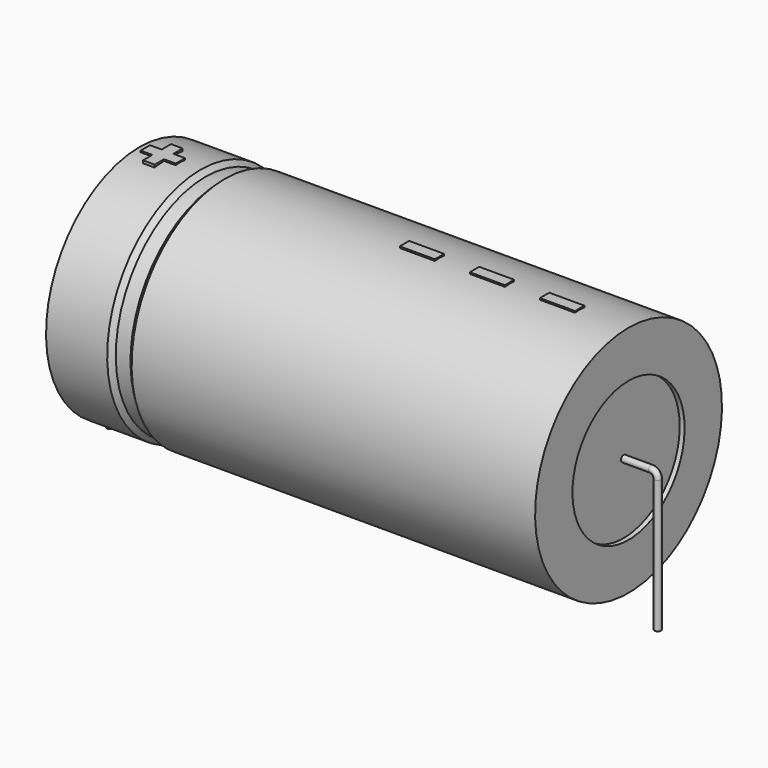
from build123d import *

# Parameters (mm, degrees)
SKETCH_R    = 0.45
SKETCH004_W = 4.8
SKETCH004_H = 1.6
PAD_DEPTH   = 16.16


with BuildPart() as sweep_body:
    # Sweep: sweep along a path in Sketch001
    with BuildLine(Plane.XZ) as sweep_path:
        Line((0, -3), (0, 15.2))
        ThreePointArc((0, 15.2), (0.263601, 15.836393), (0.899993, 16.1))
        Line((0.899993, 16.1), (74.1, 16.1))
        ThreePointArc((74.1, 16.1), (74.736396, 15.836396), (75, 15.2))
        Line((75, 15.2), (75, -3))
    # Sketch → Sweep (sweep)
    with BuildSketch(Plane.XY.offset(-2)):
        Circle(SKETCH_R)
    sweep(path=sweep_path.line)


with BuildPart() as revolution:
    # Sketch002 → Revolution (revolve)
    with BuildSketch(Plane.XZ):
        Polygon((4, 32.1), (4, 25.7), (71, 25.7), (71, 32.1), (15.725, 32.1), (15.055, 31.46), (13.045, 31.46), (12.375, 32.1), align=None)
    revolve(axis=Axis((6.97588, 0, 16.1), (1, 0, 0)))


with BuildPart() as revolution001:
    # Sketch003 → Revolution001 (revolve)
    with BuildSketch(Plane.XZ):
        Polygon((4.67, 31.46), (8.02, 31.46), (8.02, 17.7), (66.98, 17.7), (66.98, 31.46), (70.33, 31.46), (70.33, 16.1), (4.67, 16.1), align=None)
    revolve(axis=Axis((6.97588, 0, 16.1), (1, 0, 0)))


with BuildPart() as pad:
    # Sketch004 → Pad (new body)
    with BuildSketch(Plane.XY.offset(16.1)):
        with Locations((61.9, 0)):
            Rectangle(SKETCH004_W, SKETCH004_H)
        with Locations((52.3, 0)):
            Rectangle(SKETCH004_W, SKETCH004_H)
        with Locations((42.7, 0)):
            Rectangle(SKETCH004_W, SKETCH004_H)
        Polygon((6.404, 0.8), (4.804, 0.8), (4.804, -0.8), (6.404, -0.8), (6.404, -2.4), (8.004, -2.4), (8.004, -0.8), (9.604, -0.8), (9.604, 0.8), (8.004, 0.8), (8.004, 2.4), (6.404, 2.4), align=None)
    extrude(amount=PAD_DEPTH)


solid = Compound([sweep_body.part, revolution.part, revolution001.part, pad.part])
